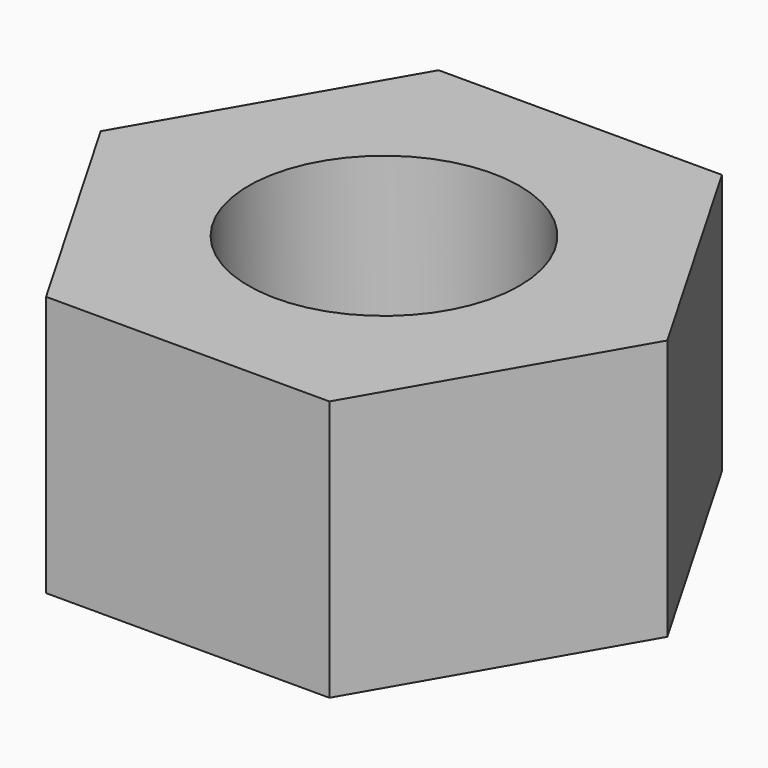
from build123d import *

# Parameters (mm, degrees)
F1_DEPTH = 5.2
F2_R     = 2.7
F3_DEPTH = 5.2


with BuildPart() as f1:
    # F0 (on Top) → F1 (new body)
    with BuildSketch(Plane.XY):
        Polygon((2.823243, 4.89), (-2.823243, 4.89), (-5.646486, 0), (-2.823243, -4.89), (2.823243, -4.89), (5.646486, 0), align=None)
    extrude(amount=F1_DEPTH)

    # F2 (on face) → F3 (cut, through all)
    with BuildSketch(Plane.XY.offset(5.2)):
        Circle(F2_R)
    extrude(amount=-F3_DEPTH, mode=Mode.SUBTRACT)


solid = f1.part
